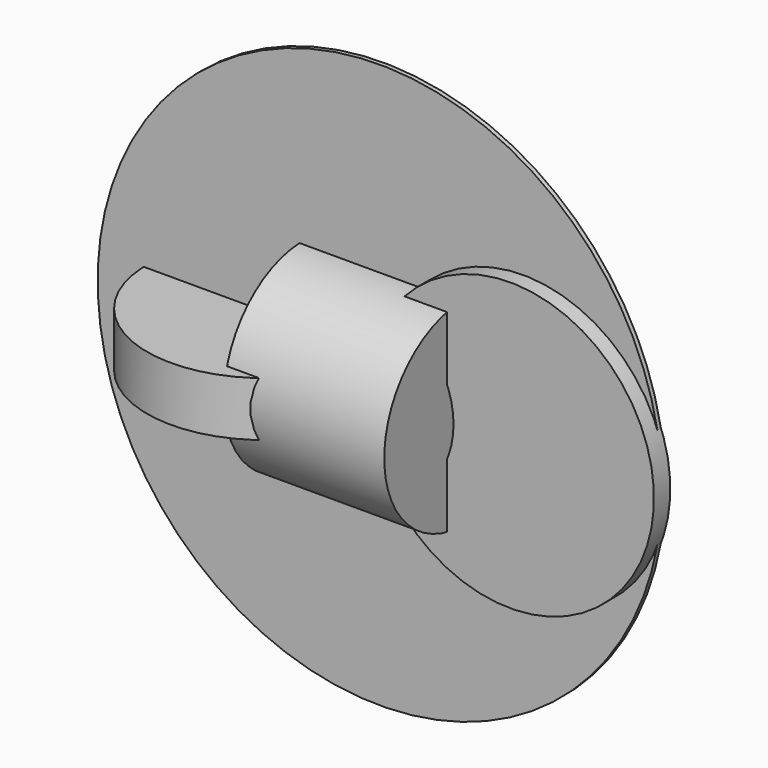
from build123d import *

# Parameters (mm, degrees)
F3_DEPTH = 25.4
F4_DEPTH = 33.9451208711
F2_R     = 123.299198533
F5_DEPTH = 99.812948145
F6_R     = 351.2317205635
F7_DEPTH = 5.5103451014


with BuildPart() as f3:
    # F0 (on Front) → F3 (new body)
    with BuildSketch(Plane.XZ):
        with BuildLine():
            ThreePointArc((32.4707977179, 102.702457163), (86.8898240425, 63.6577245086), (107.7132647902, 0))
            ThreePointArc((107.7132647902, 0), (86.8898240425, -63.6577245086), (32.4707977179, -102.702457163))
            ThreePointArc((32.4707977179, -102.702457163), (232.5117352441, -170.3440897743), (357.310205698, 0))
            ThreePointArc((357.310205698, 0), (232.5117352441, 170.3440897743), (32.4707977179, 102.702457163))
        make_face()
    extrude(amount=F3_DEPTH)


with BuildPart() as f4:
    # F1 (on Top) → F4 (new body, symmetric)
    with BuildSketch(Plane.XY):
        with BuildLine():
            ThreePointArc((-17.2122190879, -69.0221971367), (-4.3679501662, -35.5679778154), (0, 0))
            ThreePointArc((0, 0), (-4.3679501662, 35.5679778154), (-17.2122190879, 69.0221971367))
            ThreePointArc((-17.2122190879, 69.0221971367), (-71.1359556308, 0), (-17.2122190879, -69.0221971367))
        make_face()
        with BuildLine():
            ThreePointArc((-17.2122190879, 69.0221971367), (-4.3679501662, 35.5679778154), (0, 0))
            ThreePointArc((0, 0), (-4.3679501662, -35.5679778154), (-17.2122190879, -69.0221971367))
            ThreePointArc((-17.2122190879, -69.0221971367), (43.7945003977, -56.0568097418), (71.1359556308, 0))
            ThreePointArc((71.1359556308, 0), (43.7945003977, 56.0568097418), (-17.2122190879, 69.0221971367))
        make_face()
        with BuildLine():
            ThreePointArc((-17.2122190879, -69.0221971367), (-71.1359556308, 0), (-17.2122190879, 69.0221971367))
            ThreePointArc((-17.2122190879, 69.0221971367), (-293.9960360527, 0), (-17.2122190879, -69.0221971367))
        make_face()
    extrude(amount=F4_DEPTH, both=True)


with BuildPart() as f5:
    # F2 (on Right) → F5 (new body, symmetric)
    with BuildSketch(Plane.YZ):
        Circle(F2_R)
    extrude(amount=F5_DEPTH, both=True)


with BuildPart() as f7:
    # F6 (on Front) → F7 (new body)
    with BuildSketch(Plane.XZ):
        Circle(F6_R)
    extrude(amount=F7_DEPTH)


solid = Compound([f3.part, f4.part, f5.part, f7.part])
